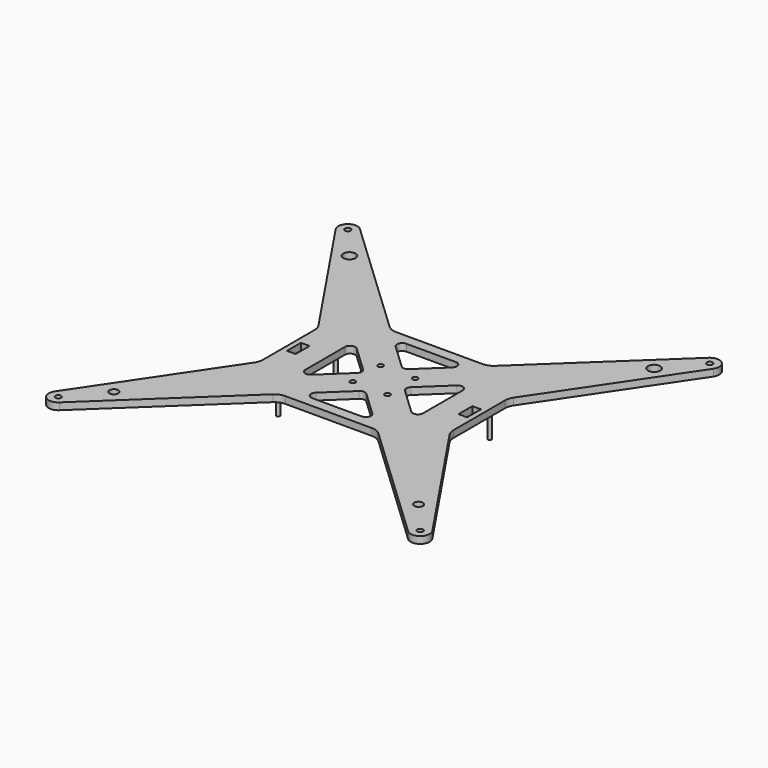
from build123d import *

# Parameters (mm, degrees)
F0_R     = 1.65
F0_R_2   = 2.55
F0_R_3   = 1.525
F0_W     = 5
F0_H     = 10
F0_R_4   = 3.555
F1_DEPTH = 4
F2_R     = 1
F3_DEPTH = 20
F4_R     = 3.555
F4_R_2   = 2.55
F5_DEPTH = 4


with BuildPart() as f1:
    # F0 (on Top) → F1 (new body)
    with BuildSketch(Plane.XY):
        with BuildLine():
            ThreePointArc((-56.363239, 23.1312), (-55.348378, 20.999418), (-54.999976, 18.664241))
            Line((-54.999976, 18.664241), (-54.999976, -18.664242))
            ThreePointArc((-54.999976, -18.664242), (-55.348378, -20.999419), (-56.363239, -23.1312))
            Line((-56.363239, -23.1312), (-109.062757, -101.428966))
            ThreePointArc((-109.062757, -101.428966), (-108.056825, -108.695115), (-100.723998, -108.498976))
            Line((-100.723998, -108.498976), (-30.492366, -42.183308))
            ThreePointArc((-30.492366, -42.183308), (-27.955204, -40.565838), (-25, -40))
            Line((-25, -40), (25, -40))
            ThreePointArc((25, -40), (27.955204, -40.565838), (30.492367, -42.183308))
            Line((30.492367, -42.183308), (100.723998, -108.498976))
            ThreePointArc((100.723998, -108.498976), (108.056825, -108.695115), (109.062757, -101.428966))
            Line((109.062757, -101.428966), (56.363239, -23.1312))
            ThreePointArc((56.363239, -23.1312), (55.348379, -20.999418), (54.999977, -18.664242))
            Line((54.999977, -18.664242), (54.999977, 18.664241))
            ThreePointArc((54.999977, 18.664241), (55.348379, 20.999418), (56.363239, 23.1312))
            Line((56.363239, 23.1312), (109.062757, 101.428966))
            ThreePointArc((109.062757, 101.428966), (108.056825, 108.695115), (100.723998, 108.498976))
            Line((100.723998, 108.498976), (30.492367, 42.183307))
            ThreePointArc((30.492367, 42.183307), (27.955204, 40.565837), (25, 40))
            Line((25, 40), (-25, 40))
            ThreePointArc((-25, 40), (-27.955204, 40.565837), (-30.492366, 42.183307))
            Line((-30.492366, 42.183307), (-100.723998, 108.498976))
            ThreePointArc((-100.723998, 108.498976), (-108.056825, 108.695115), (-109.062757, 101.428966))
            Line((-109.062757, 101.428966), (-56.363239, 23.1312))
        make_face()
        with Locations((-104.5, -104.5)):
            Circle(F0_R, mode=Mode.SUBTRACT)
        with Locations((-87.96694, -85)):
            Circle(F0_R_2, mode=Mode.SUBTRACT)
        with Locations((-44.444976, -20.807752)):
            Circle(F0_R_2, mode=Mode.SUBTRACT)
        with BuildLine():
            ThreePointArc((-34, 14.278979), (-32.187663, 17.033876), (-28.940362, 16.460239))
            Line((-28.940362, 16.460239), (-13.818204, 2.181259))
            ThreePointArc((-13.818204, 2.181259), (-12.877841, -1e-06), (-13.818204, -2.18126))
            Line((-13.818204, -2.18126), (-28.940362, -16.460239))
            ThreePointArc((-28.940362, -16.460239), (-32.187663, -17.033877), (-34, -14.27898))
            Line((-34, -14.27898), (-34, 14.278979))
        make_face(mode=Mode.SUBTRACT)
        with Locations((-10, -10)):
            Circle(F0_R_3, mode=Mode.SUBTRACT)
        with Locations((104.5, -104.5)):
            Circle(F0_R, mode=Mode.SUBTRACT)
        with Locations((87.966941, -85)):
            Circle(F0_R_2, mode=Mode.SUBTRACT)
        with BuildLine():
            ThreePointArc((-14.278979, -34), (-17.06679, -32.108202), (-16.338617, -28.818741))
            Line((-16.338617, -28.818741), (-2.059637, -15.335926))
            ThreePointArc((-2.059637, -15.335926), (0, -14.517186), (2.059638, -15.335926))
            Line((2.059638, -15.335926), (16.338617, -28.818741))
            ThreePointArc((16.338617, -28.818741), (17.06679, -32.108202), (14.27898, -34))
            Line((14.27898, -34), (-14.278979, -34))
        make_face(mode=Mode.SUBTRACT)
        with Locations((10, -10)):
            Circle(F0_R_3, mode=Mode.SUBTRACT)
        with Locations((44.444977, -20.807752)):
            Circle(F0_R_2, mode=Mode.SUBTRACT)
        with Locations((-49.499976, 0)):
            Rectangle(F0_W, F0_H, mode=Mode.SUBTRACT)
        with Locations((-44.444976, 20.810818)):
            Circle(F0_R_4, mode=Mode.SUBTRACT)
        with Locations((-10, 10)):
            Circle(F0_R_3, mode=Mode.SUBTRACT)
        with Locations((-87.96694, 85)):
            Circle(F0_R_4, mode=Mode.SUBTRACT)
        with Locations((-104.5, 104.5)):
            Circle(F0_R, mode=Mode.SUBTRACT)
        with Locations((10, 10)):
            Circle(F0_R_3, mode=Mode.SUBTRACT)
        with BuildLine():
            ThreePointArc((28.940363, 16.460239), (32.187664, 17.033876), (34, 14.278979))
            Line((34, 14.278979), (34, -14.27898))
            ThreePointArc((34, -14.27898), (32.187663, -17.033876), (28.940363, -16.460239))
            Line((28.940363, -16.460239), (13.818205, -2.18126))
            ThreePointArc((13.818205, -2.18126), (12.877842, 0), (13.818205, 2.181259))
            Line((13.818205, 2.181259), (28.940363, 16.460239))
        make_face(mode=Mode.SUBTRACT)
        with BuildLine():
            ThreePointArc((14.27898, 34), (17.066791, 32.108201), (16.338617, 28.81874))
            Line((16.338617, 28.81874), (2.059638, 15.335925))
            ThreePointArc((2.059638, 15.335925), (0, 14.517185), (-2.059637, 15.335925))
            Line((-2.059637, 15.335925), (-16.338617, 28.81874))
            ThreePointArc((-16.338617, 28.81874), (-17.06679, 32.108201), (-14.278979, 34))
            Line((-14.278979, 34), (14.27898, 34))
        make_face(mode=Mode.SUBTRACT)
        with Locations((49.499977, 0)):
            Rectangle(F0_W, F0_H, mode=Mode.SUBTRACT)
        with Locations((44.444977, 20.810818)):
            Circle(F0_R_4, mode=Mode.SUBTRACT)
        with Locations((87.966941, 85)):
            Circle(F0_R_4, mode=Mode.SUBTRACT)
        with Locations((104.5, 104.5)):
            Circle(F0_R, mode=Mode.SUBTRACT)
    extrude(amount=F1_DEPTH)



with BuildPart() as f3:
    # F2 (on Top) → F3 (new body)
    with BuildSketch(Plane.XY):
        with Locations((-44.444976, 20.810818)):
            Circle(F2_R)
        with Locations((-44.444976, -20.807752)):
            Circle(F2_R)
        with Locations((44.444977, 20.810818)):
            Circle(F2_R)
        with Locations((44.444977, -20.807752)):
            Circle(F2_R)
    extrude(amount=-F3_DEPTH)


with BuildPart() as f1_1:
    add(f1.part)

    add(f3.part)  # F5 merges F3
    # F4 (on face) → F5 (join)
    with BuildSketch(Plane.XY.offset(4)):
        with Locations((44.444977, 20.810818)):
            Circle(F4_R)
        with Locations((44.444977, -20.807752)):
            Circle(F4_R_2)
        with Locations((-44.444976, -20.807752)):
            Circle(F4_R_2)
        with Locations((-44.444976, 20.810818)):
            Circle(F4_R)
    extrude(amount=-F5_DEPTH)


solid = f1_1.part
